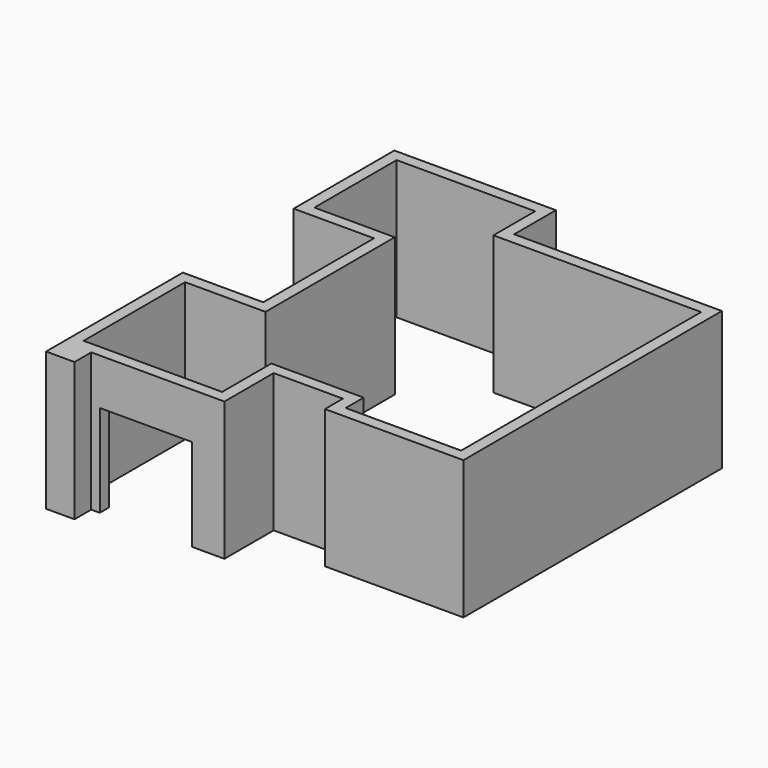
from build123d import *

# Parameters (mm, degrees)
F0_W     = 625.35578
F0_H     = 460.991905
F1_DEPTH = 3048
F2_W     = 2032
F2_H     = 2032
F3_DEPTH = 355.6


with BuildPart() as f1:
    # F0 (on Top) → F1 (new body)
    with BuildSketch(Plane.XY):
        Polygon((1768.606122, 0), (0, 0), (0, -3302), (625.35578, -3302), (3556, -3302), (3556, -1946.283485), (5080, -1946.283485), (5080, -2440.723248), (8128, -2440.723248), (8128, 4671.276752), (3556, 4671.276752), (3556, 5818.499038), (0, 5818.499038), (0, 3048), (1768.606122, 3048), align=None)
        Polygon((3302, 5564.499038), (3302, 4417.276752), (7874, 4417.276752), (7874, -2186.723248), (5334, -2186.723248), (5334, -1692.283485), (3302, -1692.283485), (3302, -3048), (254, -3048), (254, -254), (2022.606122, -254), (2022.606122, 3302), (254, 3302), (254, 5564.499038), align=None, mode=Mode.SUBTRACT)
        with Locations((312.67789, -3532.495952)):
            Rectangle(F0_W, F0_H)
    extrude(amount=F1_DEPTH)

    # F2 (on face) → F3 (cut)
    with BuildSketch(Plane.XZ.offset(3302)):
        with Locations((1828.8, 1016)):
            Rectangle(F2_W, F2_H)
    extrude(amount=-F3_DEPTH, mode=Mode.SUBTRACT)


solid = f1.part
